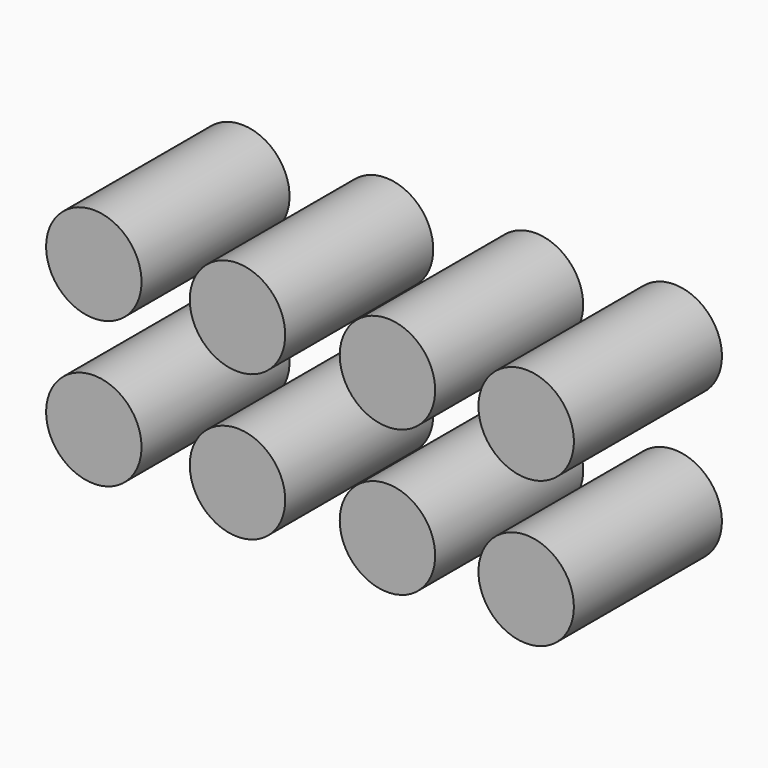
from build123d import *

# Parameters (mm, degrees)
F1_DEPTH = 9.5


with BuildPart() as f1:
    # F0 (on Front) → F1 (new body)
    with BuildSketch(Plane.XZ):
        with BuildLine():
            ThreePointArc((-8.7426458776, 3.475), (-11.1926458776, 5.925), (-13.6426458776, 3.475))
            Line((-13.6426458776, 3.475), (-11.1926458776, 3.475))
            Line((-11.1926458776, 3.475), (-8.7426458776, 3.475))
        make_face()
        with BuildLine():
            Line((-11.1926458776, 3.475), (-13.6426458776, 3.475))
            ThreePointArc((-13.6426458776, 3.475), (-11.1926458776, 1.025), (-8.7426458776, 3.475))
            Line((-8.7426458776, 3.475), (-11.1926458776, 3.475))
        make_face()
    extrude(amount=F1_DEPTH)


with BuildPart() as f1b:
    # F0 (on Front) → F1, piece 2 (new body)
    with BuildSketch(Plane.XZ):
        with BuildLine():
            ThreePointArc((-1.365070726, 3.475), (-3.815070726, 5.925), (-6.265070726, 3.475))
            Line((-6.265070726, 3.475), (-1.365070726, 3.475))
        make_face()
        with BuildLine():
            Line((-1.365070726, 3.475), (-6.265070726, 3.475))
            ThreePointArc((-6.265070726, 3.475), (-3.815070726, 1.025), (-1.365070726, 3.475))
        make_face()
    extrude(amount=F1_DEPTH)


with BuildPart() as f1c:
    # F0 (on Front) → F1, piece 3 (new body)
    with BuildSketch(Plane.XZ):
        with BuildLine():
            Line((1.4332693826, 3.475), (6.3332693826, 3.475))
            ThreePointArc((6.3332693826, 3.475), (3.8832693826, 5.925), (1.4332693826, 3.475))
        make_face()
        with BuildLine():
            ThreePointArc((1.4332693826, 3.475), (3.8832693826, 1.025), (6.3332693826, 3.475))
            Line((6.3332693826, 3.475), (1.4332693826, 3.475))
        make_face()
    extrude(amount=F1_DEPTH)


with BuildPart() as f1d:
    # F0 (on Front) → F1, piece 4 (new body)
    with BuildSketch(Plane.XZ):
        with BuildLine():
            Line((13.415, 3.475), (13.4542346641, 3.475))
            ThreePointArc((13.4542346641, 3.475), (11.0042346641, 5.925), (8.5542346641, 3.475))
            Line((8.5542346641, 3.475), (13.415, 3.475))
        make_face()
        with BuildLine():
            ThreePointArc((8.5542346641, 3.475), (11.0042346641, 1.025), (13.4542346641, 3.475))
            Line((13.4542346641, 3.475), (13.415, 3.475))
            Line((13.415, 3.475), (8.5542346641, 3.475))
        make_face()
    extrude(amount=F1_DEPTH)


with BuildPart() as f1e:
    # F0 (on Front) → F1, piece 5 (new body)
    with BuildSketch(Plane.XZ):
        with BuildLine():
            ThreePointArc((8.5542346641, -3.9964863099), (11.0042346641, -6.4464863099), (13.4542346641, -3.9964863099))
            Line((13.4542346641, -3.9964863099), (8.5542346641, -3.9964863099))
        make_face()
        with BuildLine():
            Line((8.5542346641, -3.9964863099), (13.4542346641, -3.9964863099))
            ThreePointArc((13.4542346641, -3.9964863099), (11.0042346641, -1.5464863099), (8.5542346641, -3.9964863099))
        make_face()
    extrude(amount=F1_DEPTH)


with BuildPart() as f1f:
    # F0 (on Front) → F1, piece 6 (new body)
    with BuildSketch(Plane.XZ):
        with BuildLine():
            Line((1.4332693826, -3.9964863099), (6.3332693826, -3.9964863099))
            ThreePointArc((6.3332693826, -3.9964863099), (3.8832693826, -1.5464863099), (1.4332693826, -3.9964863099))
        make_face()
        with BuildLine():
            ThreePointArc((1.4332693826, -3.9964863099), (3.8832693826, -6.4464863099), (6.3332693826, -3.9964863099))
            Line((6.3332693826, -3.9964863099), (1.4332693826, -3.9964863099))
        make_face()
    extrude(amount=F1_DEPTH)


with BuildPart() as f1g:
    # F0 (on Front) → F1, piece 7 (new body)
    with BuildSketch(Plane.XZ):
        with BuildLine():
            ThreePointArc((-1.365070726, -3.9964863099), (-3.815070726, -1.5464863099), (-6.265070726, -3.9964863099))
            Line((-6.265070726, -3.9964863099), (-1.365070726, -3.9964863099))
        make_face()
        with BuildLine():
            Line((-1.365070726, -3.9964863099), (-6.265070726, -3.9964863099))
            ThreePointArc((-6.265070726, -3.9964863099), (-3.815070726, -6.4464863099), (-1.365070726, -3.9964863099))
        make_face()
    extrude(amount=F1_DEPTH)


with BuildPart() as f1h:
    # F0 (on Front) → F1, piece 8 (new body)
    with BuildSketch(Plane.XZ):
        with BuildLine():
            ThreePointArc((-8.7426458776, -3.9964863099), (-11.1926458776, -1.5464863099), (-13.6426458776, -3.9964863099))
            Line((-13.6426458776, -3.9964863099), (-8.7426458776, -3.9964863099))
        make_face()
        with BuildLine():
            Line((-8.7426458776, -3.9964863099), (-13.6426458776, -3.9964863099))
            ThreePointArc((-13.6426458776, -3.9964863099), (-11.1926458776, -6.4464863099), (-8.7426458776, -3.9964863099))
        make_face()
    extrude(amount=F1_DEPTH)


solid = Compound([f1.part, f1b.part, f1c.part, f1d.part, f1e.part, f1f.part, f1g.part, f1h.part])
